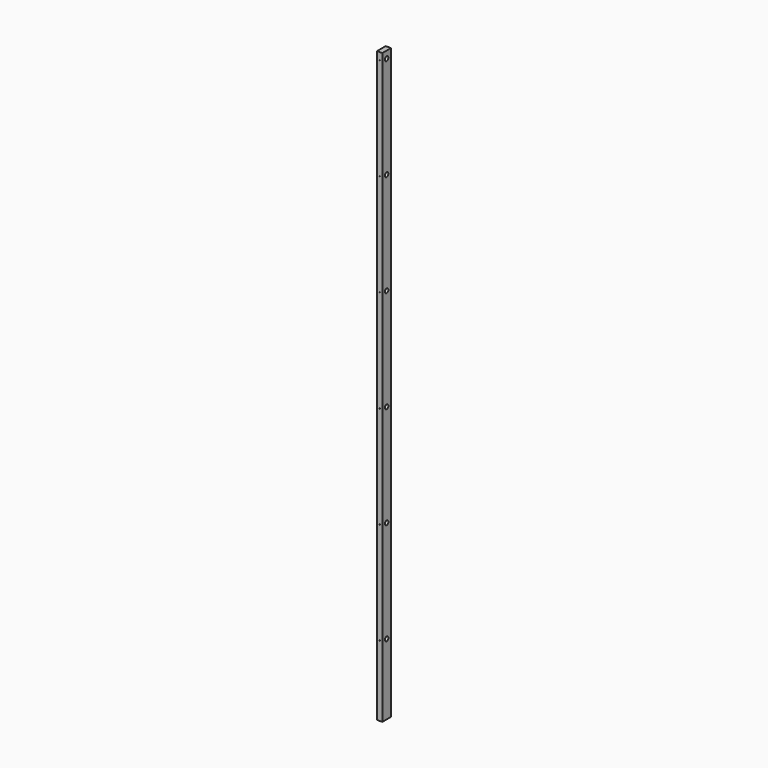
from build123d import *

# Parameters (mm, degrees)
F0_W     = 22
F0_H     = 2450
F1_DEPTH = 45
F3_D     = 3
F3_DEPTH = 22
F5_D     = 18


with BuildPart() as f1:
    # F0 (on Front) → F1 (new body)
    with BuildSketch(Plane.XZ):
        Rectangle(F0_W, F0_H)
    extrude(amount=F1_DEPTH)

    # F3
    with Locations(Plane.XZ.offset(45)):
        with Locations((0, 1195), (0, 770), (0, -505), (0, 345), (0, -930), (0, -80)):
            Hole(F3_D / 2, depth=F3_DEPTH)

    # F5 (through all)
    with Locations(Plane.YZ.offset(11)):
        with Locations((-22.5, 1195), (-22.5, 770), (-22.5, 345), (-22.5, -80), (-22.5, -505), (-22.5, -930)):
            Hole(F5_D / 2)


solid = f1.part
